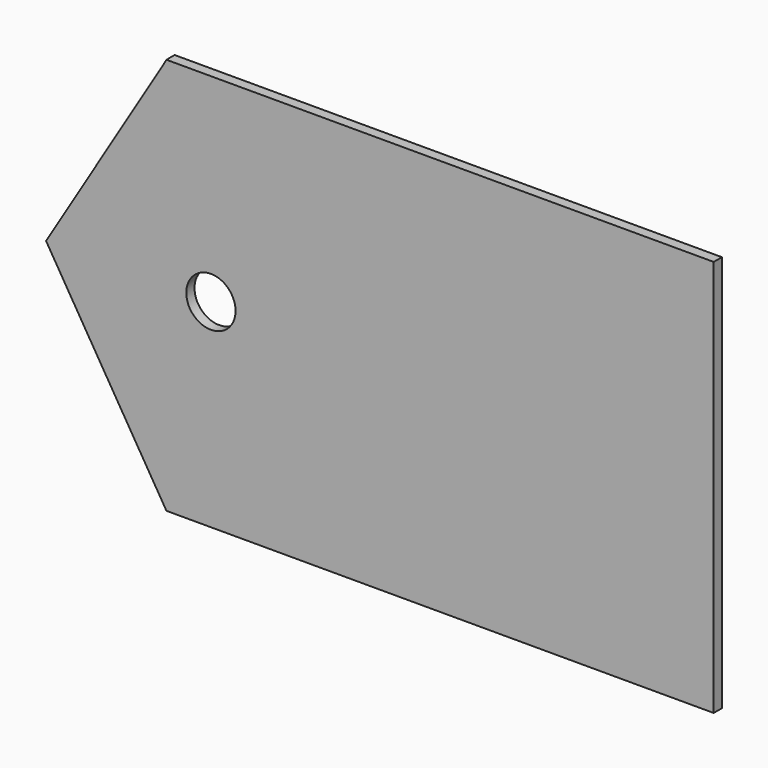
from build123d import *

# Parameters (mm, degrees)
F1_DEPTH = 19.05
F2_R     = 45.72
F3_DEPTH = 25.4


with BuildPart() as f1:
    # F0 (on Front) → F1 (new body)
    with BuildSketch(Plane.XZ):
        Polygon((-690.083177, 286.513845), (-913.432107, -81.786155), (-690.083177, -450.086155), (-563.697045, -449.713886), (198.302955, -449.713886), (325.572278, -449.713886), (325.572278, 286.886114), (198.572278, 286.886114), (198.302955, 286.886114), (-563.697045, 286.886114), align=None)
        Polygon((-563.697045, -449.713886), (-690.083177, -450.086155), (325.572278, -450.086155), (325.572278, -449.713886), (198.302955, -449.713886), align=None)
        Polygon((-690.083177, 286.886114), (-690.083177, 286.513845), (-563.697045, 286.886114), align=None)
    extrude(amount=F1_DEPTH)

    # F2 (on face) → F3 (cut)
    with BuildSketch(Plane.XZ.offset(19.05)):
        with Locations((-607.512472, -81.786155)):
            Circle(F2_R)
    extrude(amount=-F3_DEPTH, mode=Mode.SUBTRACT)


solid = f1.part
